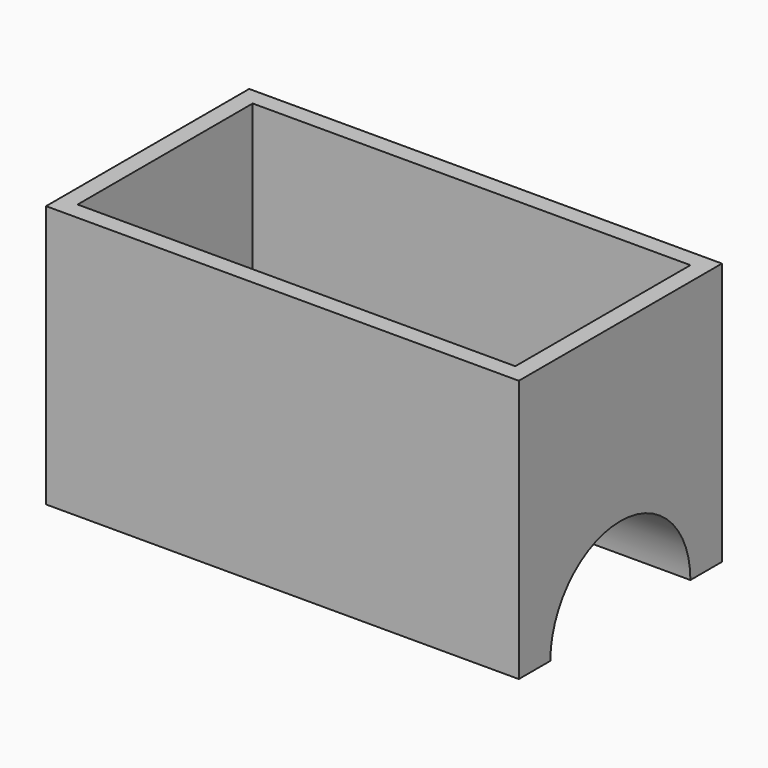
from build123d import *

# Parameters (mm, degrees)
SKETCH_W     = 54
SKETCH_H     = 29
SKETCH_W_2   = 50
SKETCH_H_2   = 25
PAD_DEPTH    = 30
POCKET_DEPTH = 54.001
PAD001_DEPTH = 52


with BuildPart() as part:
    # Sketch → Pad (new body)
    with BuildSketch(Plane.XY):
        with Locations((27, 14.5)):
            Rectangle(SKETCH_W, SKETCH_H)
        with Locations((27, 14.5)):
            Rectangle(SKETCH_W_2, SKETCH_H_2, mode=Mode.SUBTRACT)
    extrude(amount=PAD_DEPTH)

    # Sketch001 (on Face2 of Pad) → Pocket (cut, through all)
    with BuildSketch(Plane.YZ.offset(54)):
        with BuildLine():
            ThreePointArc((24.5, 0), (14.5, 10), (4.5, 0))
            Line((4.5, 0), (24.5, 0))
        make_face()
    extrude(amount=-POCKET_DEPTH, mode=Mode.SUBTRACT)

    # Sketch002 (on Face3 of Pocket) → Pad001 (join)
    with BuildSketch(Plane.YZ.offset(54)):
        with BuildLine():
            ThreePointArc((24.5, 0), (14.5, 10), (4.5, 0))
            Line((0, 0), (4.5, 0))
            Line((0, 0), (0, 2))
            Line((0, 2), (2.66784, 2))
            ThreePointArc((26.33216, 2), (14.5, 12), (2.66784, 2))
            Line((29, 2), (26.33216, 2))
            Line((29, 0), (29, 2))
            Line((24.5, 0), (29, 0))
        make_face()
    extrude(amount=-PAD001_DEPTH)


solid = part.part
